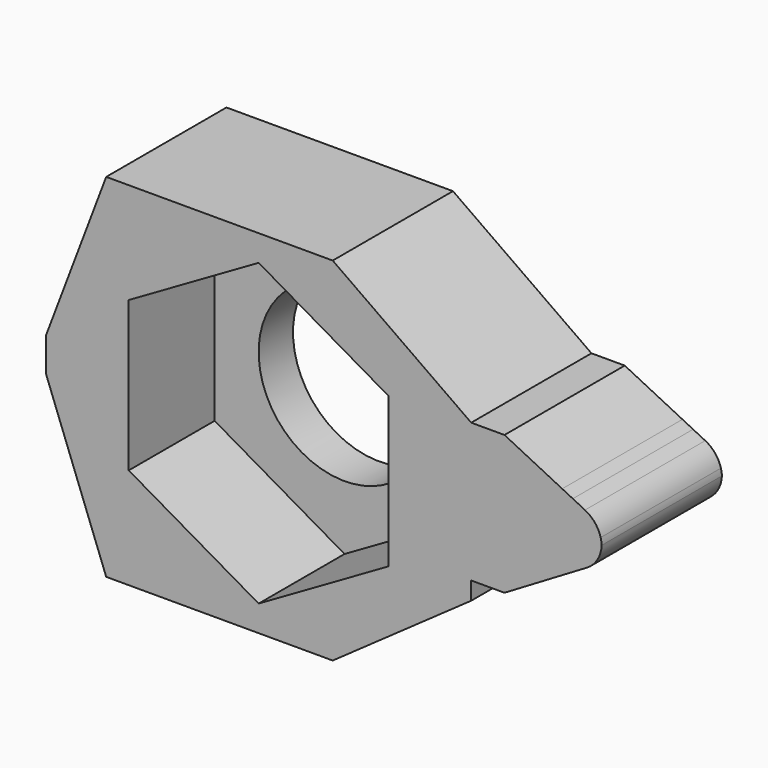
from build123d import *

# Parameters (mm, degrees)
F1_DEPTH = 7
F0_R     = 4
F2_DEPTH = 2


with BuildPart() as f1:
    # F0 (on Front) → F1 (new body)
    with BuildSketch(Plane.XZ):
        Polygon((-1.0698140982, 4.0490861801), (-11.6198140982, 4.0490861801), (-14.4198140982, -3.3509138199), (-14.4198140982, -4.9509138199), (-11.6198140982, -12.3509138199), (-1.0698140982, -12.3509138199), (5.3801859018, -7.8009138199), (5.3801859018, -6.9708852422), (5.3801859018, -0.5009138199), align=None)
        Polygon((1.5301859018, -0.6579446913), (1.5301859018, -7.6438829485), (-4.5198140982, -11.1368520771), (-10.5698140982, -7.6438829485), (-10.5698140982, -0.6579446913), (-4.5198140982, 2.8350244373), align=None, mode=Mode.SUBTRACT)
        with BuildLine():
            Line((6.9301859018, -0.5009138199), (5.3801859018, -0.5009138199))
            Line((5.3801859018, -0.5009138199), (5.3801859018, -6.9708852422))
            Line((5.3801859018, -6.9708852422), (6.9301859018, -6.9708852422))
            Line((6.9301859018, -6.9708852422), (10.7727036603, -4.6895619497))
            ThreePointArc((10.7727036603, -4.6895619497), (11.2584820634, -4.2060310818), (11.4565202284, -3.5498575968))
            ThreePointArc((11.4565202284, -3.5498575968), (11.4412037001, -3.3978310982), (11.4094109325, -3.248379192))
            Line((11.4094109325, -3.248379192), (10.6692053247, -3.248379192))
            ThreePointArc((10.6692053247, -3.248379192), (8.1008458295, -4.0583049575), (9.6180241196, -1.8333060186))
            Line((9.6180241196, -1.8333060186), (6.9301859018, -0.5009138199))
        make_face()
        with BuildLine():
            Line((10.679781054, -2.3596310954), (10.1132564961, -2.0787983815))
            ThreePointArc((10.1132564961, -2.0787983815), (10.5230870147, -2.5788610544), (10.6697620079, -3.2085515952))
            ThreePointArc((10.6697620079, -3.2085515952), (10.6696228303, -3.2284673388), (10.6692053247, -3.248379192))
            Line((10.6692053247, -3.248379192), (11.4094109325, -3.248379192))
            ThreePointArc((11.4094109325, -3.248379192), (11.140052623, -2.7256387208), (10.679781054, -2.3596310954))
        make_face()
        with BuildLine():
            Line((10.1132564961, -2.0787983815), (9.6180241196, -1.8333060186))
            ThreePointArc((9.6180241196, -1.8333060186), (8.1008458295, -4.0583049575), (10.6692053247, -3.248379192))
            ThreePointArc((10.6692053247, -3.248379192), (10.6696228303, -3.2284673388), (10.6697620079, -3.2085515952))
            ThreePointArc((10.6697620079, -3.2085515952), (10.5230870147, -2.5788610544), (10.1132564961, -2.0787983815))
        make_face()
        with BuildLine():
            Line((6.9301859018, -0.5009138199), (5.3801859018, -0.5009138199))
            Line((5.3801859018, -0.5009138199), (5.3801859018, -6.9708852422))
            Line((5.3801859018, -6.9708852422), (6.9301859018, -6.9708852422))
            Line((6.9301859018, -6.9708852422), (10.7727036603, -4.6895619497))
            ThreePointArc((10.7727036603, -4.6895619497), (11.2584820634, -4.2060310818), (11.4565202284, -3.5498575968))
            ThreePointArc((11.4565202284, -3.5498575968), (11.4412037001, -3.3978310982), (11.4094109325, -3.248379192))
            Line((11.4094109325, -3.248379192), (10.6692053247, -3.248379192))
            ThreePointArc((10.6692053247, -3.248379192), (8.1008458295, -4.0583049575), (9.6180241196, -1.8333060186))
            Line((9.6180241196, -1.8333060186), (6.9301859018, -0.5009138199))
        make_face()
    extrude(amount=F1_DEPTH)

    # F0 (on Front) → F2 (join)
    with BuildSketch(Plane.XZ):
        Polygon((-4.5198140982, -11.1368520771), (1.5301859018, -7.6438829485), (1.5301859018, -0.6579446913), (-4.5198140982, 2.8350244373), (-10.5698140982, -0.6579446913), (-10.5698140982, -7.6438829485), align=None)
        with Locations((-4.5198140982, -4.1509138199)):
            Circle(F0_R, mode=Mode.SUBTRACT)
    extrude(amount=F2_DEPTH)


solid = f1.part
